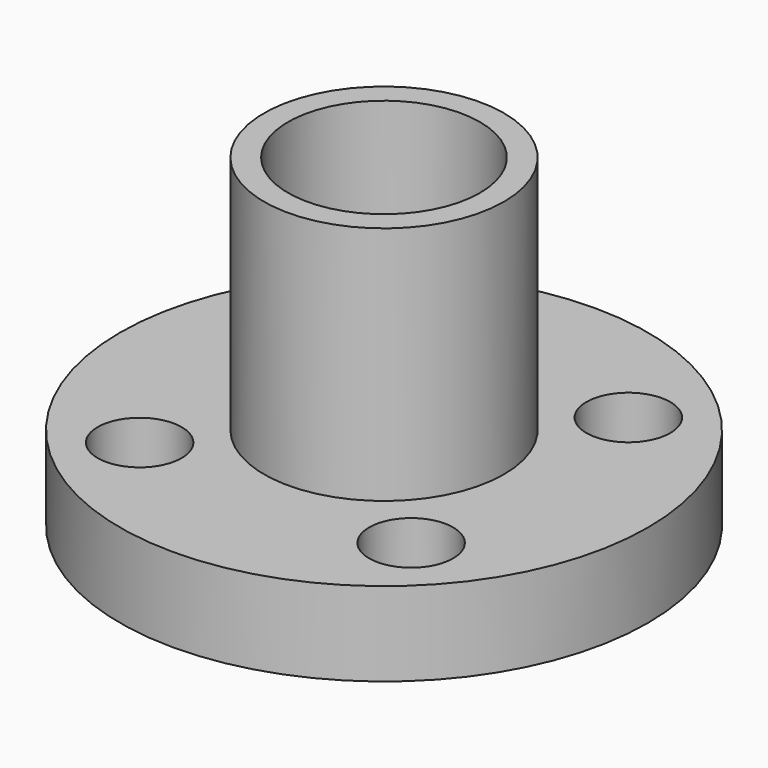
from build123d import *

# Parameters (mm, degrees)
F0_R     = 5
F0_R_2   = 4
F1_DEPTH = 10
F2_DEPTH = 5
F0_R_3   = 11
F3_DEPTH = 3.5
F4_D     = 3.5


with BuildPart() as f1:
    # F0 (on Top) → F1 (new body)
    with BuildSketch(Plane.XY):
        Circle(F0_R)
        Circle(F0_R_2, mode=Mode.SUBTRACT)
    extrude(amount=F1_DEPTH)

    # F0 (on Top) → F2 (join)
    with BuildSketch(Plane.XY):
        Circle(F0_R)
        Circle(F0_R_2, mode=Mode.SUBTRACT)
    extrude(amount=-F2_DEPTH)

    # F0 (on Top) → F3 (join)
    with BuildSketch(Plane.XY):
        Circle(F0_R_3)
        Circle(F0_R, mode=Mode.SUBTRACT)
    extrude(amount=-F3_DEPTH)

    # F4 (through all)
    with Locations(Plane.XY):
        with Locations((-5.656854, 5.656854), (5.656854, 5.656854), (5.656854, -5.656854), (-5.656854, -5.656854)):
            Hole(F4_D / 2)


solid = f1.part
